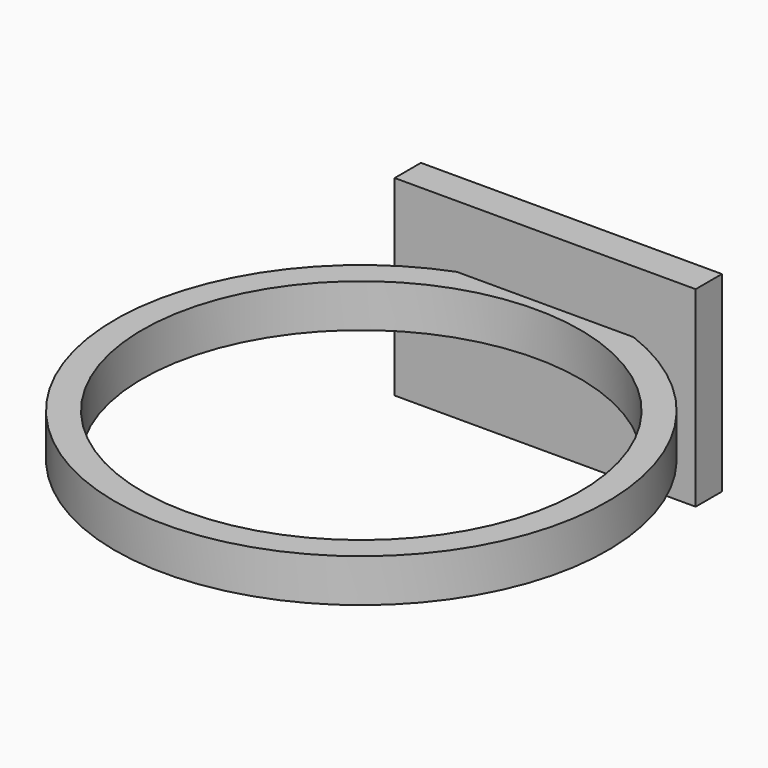
from build123d import *

# Parameters (mm, degrees)
F1_R     = 57.15
F2_DEPTH = 10
F0_W     = 69.85
F0_H     = 44.45
F3_DEPTH = 3.81
F4_D     = 101.6
F5_ANGLE = 90


with BuildPart() as f2:
    # F1 (on Right) → F2 (new body)
    with BuildSketch(Plane.YZ):
        with Locations((-57.15, -32.8166335821)):
            Circle(F1_R)
    extrude(amount=F2_DEPTH)

    # F4 (through all)
    with Locations(Plane(origin=(0, 0, 0), x_dir=(0, 1, 0), z_dir=(-1, 0, 0))):
        with Locations((-57.15, 32.8166335821)):
            Hole(F4_D / 2)


with BuildPart() as f3:
    # F0 (on Front) → F3 (new body, symmetric)
    with BuildSketch(Plane.XZ):
        with Locations((0, -30.5568929762)):
            Rectangle(F0_W, F0_H)
    extrude(amount=F3_DEPTH, both=True)


with BuildPart() as f2_1:
    # F5: moved
    add(f2.part.rotate(Axis((0, -28.575, -32.8166335821), (0, -1, 0)), F5_ANGLE))


solid = Compound([f3.part, f2_1.part])
